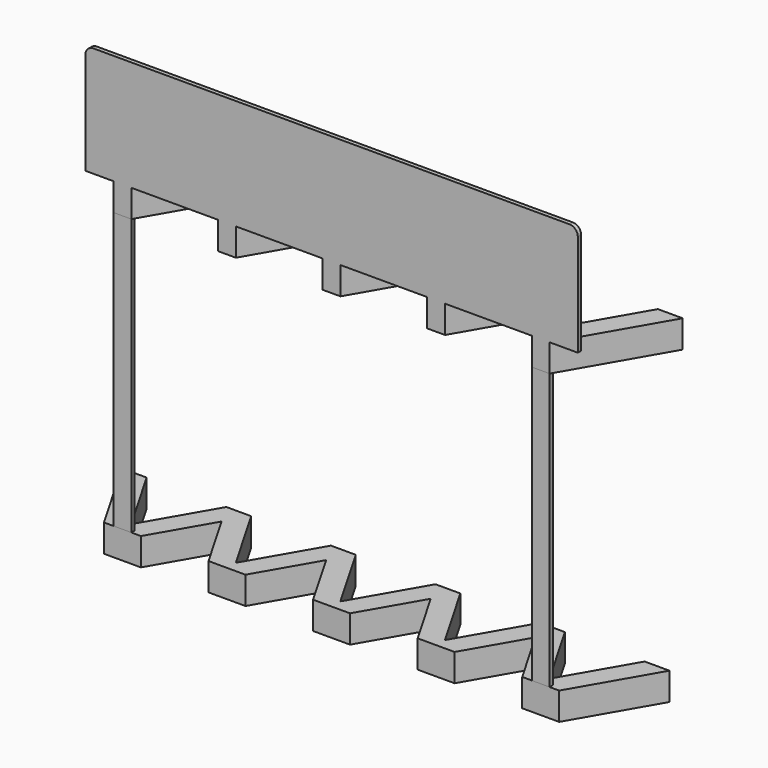
from build123d import *

# Parameters (mm, degrees)
F1_DEPTH = 5
F4_DEPTH = 5
F6_DEPTH = 1.5
F7_W     = 6.452995
F7_H     = 1.5
F8_DEPTH = 100


with BuildPart() as f1:
    # F0 (on Top) → F1 (new body, symmetric)
    with BuildSketch(Plane.XY):
        Polygon((-67.947316, 35.028733), (-76.947316, 35.028733), (-56.723467, 0), (-50.270472, 0), (-34.54697, 27.233906), (-39.04697, 35.028134), (-53.49697, 10), align=None)
        Polygon((-39.04697, 35.028134), (-34.54697, 27.233906), (-30.04697, 35.028134), (-30.047316, 35.028733), (-39.046624, 35.028733), align=None)
        Polygon((-30.04697, 35.028134), (-34.54697, 27.233906), (-18.823467, 0), (-12.370472, 0), (3.35303, 27.233906), (-1.14697, 35.028134), (-15.59697, 10), align=None)
        Polygon((-39.047316, 35.028733), (-39.04697, 35.028134), (-39.046624, 35.028733), align=None)
        Polygon((-30.047316, 35.028733), (-30.04697, 35.028134), (-30.046624, 35.028733), align=None)
        Polygon((-1.147316, 35.028733), (-1.14697, 35.028134), (-1.146624, 35.028733), align=None)
        Polygon((-1.146624, 35.028733), (-1.14697, 35.028134), (3.35303, 27.233906), (7.85303, 35.028134), (7.852684, 35.028733), align=None)
        Polygon((7.85303, 35.028134), (3.35303, 27.233906), (19.076533, 0), (25.529528, 0), (41.25303, 27.233906), (36.75303, 35.028134), (22.30303, 10), align=None)
        Polygon((7.852684, 35.028733), (7.85303, 35.028134), (7.853376, 35.028733), align=None)
        Polygon((36.752684, 35.028733), (36.75303, 35.028134), (36.753376, 35.028733), align=None)
        Polygon((36.753376, 35.028733), (36.75303, 35.028134), (41.25303, 27.233906), (45.75303, 35.028134), (45.752684, 35.028733), align=None)
        Polygon((45.75303, 35.028134), (41.25303, 27.233906), (56.976533, 0), (63.429528, 0), (79.15303, 27.233906), (74.65303, 35.028134), (60.20303, 10), align=None)
        Polygon((45.752684, 35.028733), (45.75303, 35.028134), (45.753376, 35.028733), align=None)
        Polygon((74.652684, 35.028733), (74.65303, 35.028134), (74.653376, 35.028733), align=None)
        Polygon((74.653376, 35.028733), (74.65303, 35.028134), (79.15303, 27.233906), (83.65303, 35.028134), (83.652684, 35.028733), align=None)
        Polygon((83.65303, 35.028134), (79.15303, 27.233906), (94.876533, 0), (101.329528, 0), (121.553376, 35.028733), (112.553376, 35.028733), (98.10303, 10), align=None)
        Polygon((83.652684, 35.028733), (83.65303, 35.028134), (83.653376, 35.028733), align=None)
    extrude(amount=F1_DEPTH, both=True)

    # F5 (on Front) → F6 (join)
    with BuildSketch(Plane.XZ):
        with BuildLine():
            Line((108.553376, 45), (-63.947316, 45))
            ThreePointArc((-63.947316, 45), (-66.068636, 44.12132), (-66.947316, 42))
            Line((-66.947316, 42), (-66.947316, 5))
            Line((-66.947316, 5), (111.553376, 5))
            Line((111.553376, 5), (111.553376, 42))
            ThreePointArc((111.553376, 42), (110.674697, 44.12132), (108.553376, 45))
        make_face()
    extrude(amount=-F6_DEPTH)


with BuildPart() as f4:
    # F3 (on offset) → F4 (new body, symmetric)
    with BuildSketch(Plane.XY.offset(-110)):
        Polygon((-67.94697, 29.028134), (-76.94697, 29.028134), (-60.187569, 0), (-46.806371, 0), (-34.54697, 21.233906), (-39.04697, 29.028134), (-53.49697, 4), align=None)
        Polygon((-39.04697, 29.028134), (-34.54697, 21.233906), (-30.04697, 29.028134), align=None)
        Polygon((-30.04697, 29.028134), (-34.54697, 21.233906), (-22.287569, 0), (-8.906371, 0), (3.35303, 21.233906), (-1.14697, 29.028134), (-15.59697, 4), align=None)
        Polygon((7.85303, 29.028134), (-1.14697, 29.028134), (3.35303, 21.233906), align=None)
        Polygon((7.85303, 29.028134), (3.35303, 21.233906), (15.612431, 0), (28.993629, 0), (41.25303, 21.233906), (36.75303, 29.028134), (22.30303, 4), align=None)
        Polygon((45.75303, 29.028134), (36.75303, 29.028134), (41.25303, 21.233906), align=None)
        Polygon((45.75303, 29.028134), (41.25303, 21.233906), (53.512431, 0), (66.893629, 0), (79.15303, 21.233906), (74.65303, 29.028134), (60.20303, 4), align=None)
        Polygon((83.65303, 29.028134), (74.65303, 29.028134), (79.15303, 21.233906), align=None)
        Polygon((83.65303, 29.028134), (79.15303, 21.233906), (91.412431, 0), (104.793629, 0), (121.55303, 29.028134), (112.55303, 29.028134), (98.10303, 4), align=None)
    extrude(amount=F4_DEPTH, both=True)


with BuildPart() as f8:
    # F7 (on face) → F8 (new body, through all)
    with BuildSketch(Plane(origin=(0, 0, -5), x_dir=(1, 0, 0), z_dir=(0, 0, -1))):
        with Locations((98.10303, -0.75)):
            Rectangle(F7_W, F7_H)
        with Locations((-53.496969, -0.75)):
            Rectangle(F7_W, F7_H)
    extrude(amount=F8_DEPTH)


solid = Compound([f1.part, f4.part, f8.part])
